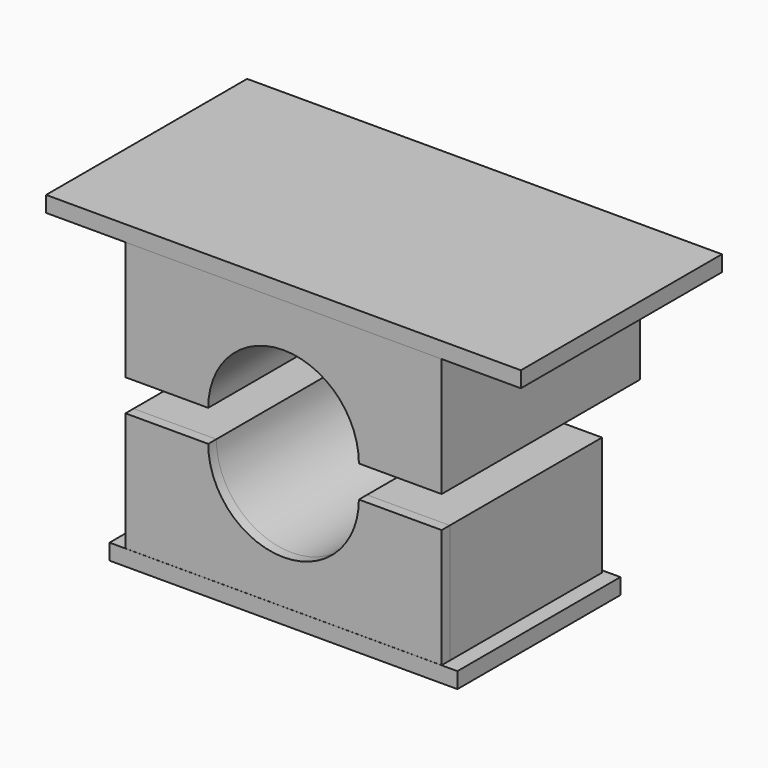
from build123d import *

# Parameters (mm, degrees)
F0_W       = 76.0333575308
F0_H       = 40.2435958385
F1_DEPTH   = 2.54
F2_W       = 50.6333575308
F2_H       = 39.7249350895
F3_DEPTH   = 19.05
F4_R       = 12.065
F5_DEPTH   = 50.8
F1_FACE1_W = 76.0333575308
F1_FACE1_H = 2.54
F8_DEPTH   = 38.1
F9_DEPTH   = 30.48
F10_DEPTH  = 7.62
F11_DEPTH  = 7.62
F12_DEPTH  = 10.16
F13_DEPTH  = 10.16
F14_DEPTH  = 10.16
F15_DEPTH  = 10.16


with BuildPart() as f1:
    # F0 (on Top) → F1 (new body)
    with BuildSketch(Plane.XY):
        with Locations((-3.3403802663, 20.1217979193)):
            Rectangle(F0_W, F0_H)
    extrude(amount=F1_DEPTH)

    # F2 (on face) → F3 (join)
    with BuildSketch(Plane.XY.offset(2.54)):
        with Locations((-3.3403802663, 19.8778254271)):
            Rectangle(F2_W, F2_H)
    extrude(amount=F3_DEPTH)

    # F4 (on face) → F5 (cut)
    with BuildSketch(Plane(origin=(0, 39.7402929718, 0), x_dir=(-1, 0, 0), z_dir=(0, 1, 0))):
        with Locations((3.3403802663, 21.59)):
            Circle(F4_R)
    extrude(amount=-F5_DEPTH, mode=Mode.SUBTRACT)


with BuildPart() as f7_1:
    # F7: instance of F1
    add(f1.part.mirror(Plane.XY.offset(24.13)))


with BuildPart() as f1_1:
    add(f1.part)

    # F1_face1 (on face) + F7_face (on face) + F7_face1 (on face) → F8 (cut)
    with BuildSketch(Plane(origin=(-3.3403802663, 0, 1.27), x_dir=(1, 0, 0), z_dir=(0, -1, 0))):
        Rectangle(F1_FACE1_W, F1_FACE1_H)
    with BuildSketch(Plane(origin=(-3.3403802663, 39.7402929718, 10.6965157334), x_dir=(-1, 0, 0), z_dir=(0, 1, 0))):
        with BuildLine():
            Line((-25.3166787654, -8.1565157334), (25.3166787654, -8.1565157334))
            Line((25.3166787654, -8.1565157334), (25.3166787654, 10.8934842666))
            Line((25.3166787654, 10.8934842666), (12.065, 10.8934842666))
            ThreePointArc((12.065, 10.8934842666), (0, -1.1715157334), (-12.065, 10.8934842666))
            Line((-12.065, 10.8934842666), (-25.3166787654, 10.8934842666))
            Line((-25.3166787654, 10.8934842666), (-25.3166787654, -8.1565157334))
        make_face()
    with BuildSketch(Plane(origin=(-3.3403802663, 39.7402929718, 37.5634842666), x_dir=(-1, 0, 0), z_dir=(0, 1, 0))):
        with BuildLine():
            Line((25.3166787654, 8.1565157334), (-25.3166787654, 8.1565157334))
            Line((-25.3166787654, 8.1565157334), (-25.3166787654, -10.8934842666))
            Line((-25.3166787654, -10.8934842666), (-12.065, -10.8934842666))
            ThreePointArc((-12.065, -10.8934842666), (0, 1.1715157334), (12.065, -10.8934842666))
            Line((12.065, -10.8934842666), (25.3166787654, -10.8934842666))
            Line((25.3166787654, -10.8934842666), (25.3166787654, 8.1565157334))
        make_face()
    extrude(amount=F8_DEPTH, dir=(0, -1, 0), mode=Mode.SUBTRACT)

    # F9 (add): a face of the model
    f9_faces = [f1_1.faces().sort_by_distance(p)[0] for p in [
        (15.3504591164, 1.6402929718, 21.0490157678),
    ]]
    extrude(f9_faces, amount=F9_DEPTH)

    # F10 (cut): a face of the model
    f10_faces = [f7_1.part.faces().sort_by_distance(p)[0] for p in [
        (-3.3403802663, 40.2435958385, 46.99),
    ]]
    extrude(f10_faces, amount=F10_DEPTH, mode=Mode.SUBTRACT)

    # F11 (cut): a face of the model
    f11_faces = [f1_1.faces().sort_by_distance(p)[0] for p in [
        (-3.3403802663, 40.2435958385, 1.27),
    ]]
    extrude(f11_faces, amount=-F11_DEPTH, mode=Mode.SUBTRACT)

    # F12 (cut): a face of the model
    f12_faces = [f1_1.faces().sort_by_distance(p)[0] for p in [
        (-41.3570590317, 16.3117979193, 1.27),
    ]]
    extrude(f12_faces, amount=-F12_DEPTH, mode=Mode.SUBTRACT)

    # F13 (cut): a face of the model
    f13_faces = [f1_1.faces().sort_by_distance(p)[0] for p in [
        (34.6762984991, 16.3117979193, 1.27),
    ]]
    extrude(f13_faces, amount=-F13_DEPTH, mode=Mode.SUBTRACT)

    # F14 (cut): a face of the model
    f14_faces = [f7_1.part.faces().sort_by_distance(p)[0] for p in [
        (34.6762984991, 20.1217979193, 46.99),
    ]]
    extrude(f14_faces, amount=F14_DEPTH, mode=Mode.SUBTRACT)

    # F15 (cut): a face of the model
    f15_faces = [f7_1.part.faces().sort_by_distance(p)[0] for p in [
        (-41.3570590317, 20.1217979193, 46.99),
    ]]
    extrude(f15_faces, amount=F15_DEPTH, mode=Mode.SUBTRACT)


solid = Compound([f7_1.part, f1_1.part])
